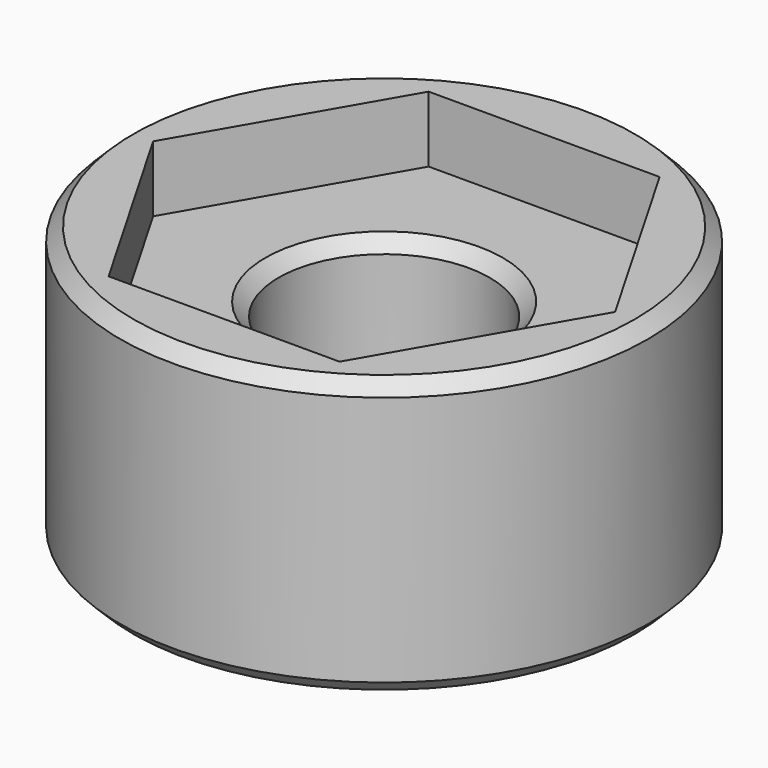
from build123d import *

# Parameters (mm, degrees)
SKETCH182_R     = 4
SKETCH182_R_2   = 1.6
PAD075_DEPTH    = 3.2
SKETCH183_R     = 4
PAD076_DEPTH    = 1
CHAMFER032_SIZE = 0.2


with BuildPart() as part:
    # Sketch182 → Pad075 (new body)
    with BuildSketch(Plane.XY):
        Circle(SKETCH182_R)
        Circle(SKETCH182_R_2, mode=Mode.SUBTRACT)
    extrude(amount=PAD075_DEPTH)

    # Sketch183 (on Face4 of Pad075) → Pad076 (join)
    with BuildSketch(Plane.XY.offset(3.2)):
        Circle(SKETCH183_R)
        Polygon((3.5, 0), (1.75, 3.031089), (-1.75, 3.031089), (-3.5, 0), (-1.75, -3.031089), (1.75, -3.031089), align=None, mode=Mode.SUBTRACT)
    extrude(amount=PAD076_DEPTH)

    # Chamfer032
    chamfer032_edges = [part.edges().sort_by_distance(p)[0] for p in [
        (-1.6, 0, 3.2),
        (-1.6, 0, 0),
        (-4, 0, 0),
        (-4, 0, 4.2),
    ]]
    chamfer(chamfer032_edges, length=CHAMFER032_SIZE)


with BuildPart() as part_1:
    # Body049 placement: moved
    add(part.part.moved(Location((-26, -36, 42.8))))


solid = part_1.part
